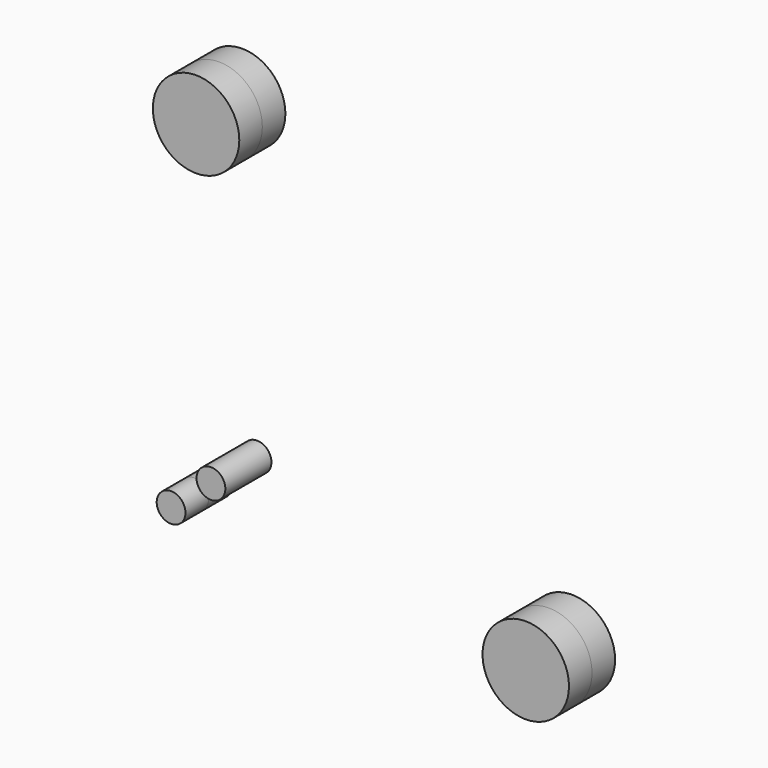
from build123d import *

# Parameters (mm, degrees)
F0_R     = 15
F0_R_2   = 5
F1_DEPTH = 10


with BuildPart() as f1:
    # F0 (on Front) → F1 (new body, symmetric)
    with BuildSketch(Plane.XZ):
        with Locations((-64.398845, 40.727912)):
            Circle(F0_R)
        with Locations((50.025977, -88.899314)):
            Circle(F0_R)
        with Locations((-73.067203, -79.181537)):
            Circle(F0_R_2)
        with Locations((-59.234619, -67.354135)):
            Circle(F0_R_2)
    extrude(amount=F1_DEPTH, both=True)


solid = f1.part
